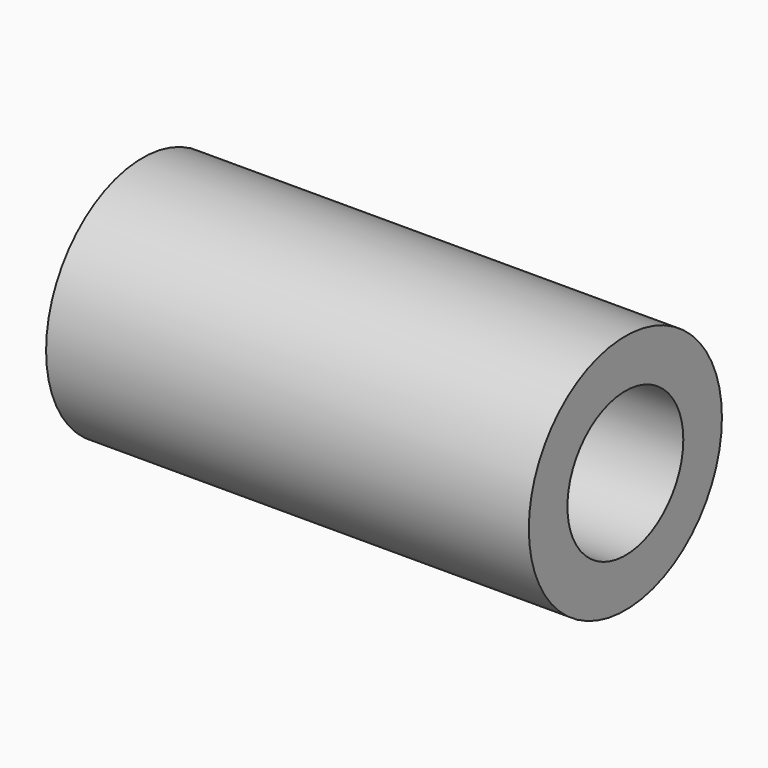
from build123d import *

# Parameters (mm, degrees)
F0_R     = 25
F1_DEPTH = 100
F2_R     = 15
F3_DEPTH = 100.001


with BuildPart() as f1:
    # F0 (on Right) → F1 (new body)
    with BuildSketch(Plane.YZ):
        Circle(F0_R)
    extrude(amount=F1_DEPTH)

    # F2 (on face) → F3 (cut, through all)
    with BuildSketch(Plane.YZ.offset(100)):
        Circle(F2_R)
    extrude(amount=-F3_DEPTH, mode=Mode.SUBTRACT)


solid = f1.part
